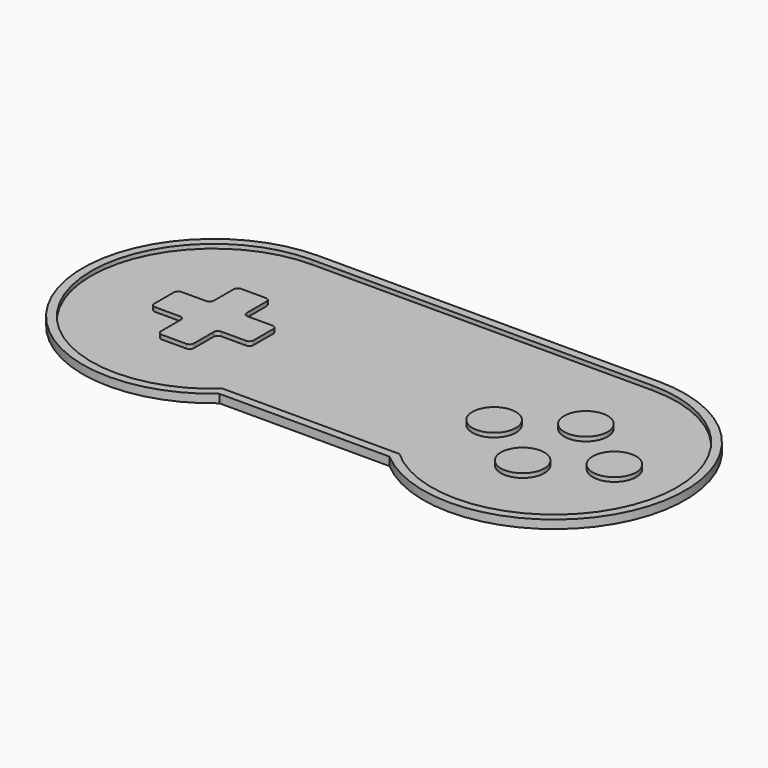
from build123d import *

# Parameters (mm, degrees)
PAD_DEPTH    = 1
SKETCH001_R  = 5.175
PAD001_DEPTH = 1
FILLET_R     = 1


with BuildPart() as part:
    # Sketch → Pad (new body)
    with BuildSketch(Plane.XY):
        with BuildLine():
            Line((0, 0), (81.1, 0))
            ThreePointArc((60.808376, -54.9), (110.364996, -42.016654), (81.1, 0))
            Line((20.291624, -54.9), (60.808376, -54.9))
            ThreePointArc((0, 0), (-29.264996, -42.016654), (20.291624, -54.9))
        make_face()
    extrude(amount=PAD_DEPTH)

    # Sketch001 (on Face6 of Pad) → Pad001 (join)
    with BuildSketch(Plane.XY.offset(1)):
        with BuildLine():
            ThreePointArc((0, 0), (-29.264996, -42.016654), (20.291624, -54.9))
            Line((60.808376, -54.9), (20.291624, -54.9))
            ThreePointArc((60.808376, -54.9), (110.364996, -42.016654), (81.1, 0))
            Line((0, 0), (81.1, 0))
        make_face()
        with BuildLine():
            ThreePointArc((0, -2), (-27.260594, -41.664225), (19.538424, -52.9))
            Line((19.538424, -52.9), (61.561576, -52.9))
            ThreePointArc((61.561576, -52.9), (108.360594, -41.664225), (81.1, -2))
            Line((81.1, -2), (0, -2))
        make_face(mode=Mode.SUBTRACT)
        with Locations((81.1, -21.785)):
            Circle(SKETCH001_R)
        with Locations((95.425, -31.2)):
            Circle(SKETCH001_R)
        with Locations((81.1, -40.615)):
            Circle(SKETCH001_R)
        with Locations((66.775, -31.2)):
            Circle(SKETCH001_R)
        Polygon((-3.925, -19.375), (3.925, -19.375), (3.925, -27.275), (11.825, -27.275), (11.825, -35.125), (3.925, -35.125), (3.925, -43.025), (-3.925, -43.025), (-3.925, -35.125), (-11.825, -35.125), (-11.825, -27.275), (-3.925, -27.275), align=None)
    extrude(amount=PAD001_DEPTH)

    # Fillet
    fillet_edges = [part.edges().sort_by_distance(p)[0] for p in [
        (3.925, -35.125, 1.5),
        (3.925, -43.025, 1.5),
        (11.825, -35.125, 1.5),
        (11.825, -27.275, 1.5),
        (3.925, -19.375, 1.5),
        (-3.925, -43.025, 1.5),
        (-3.925, -35.125, 1.5),
        (-11.825, -35.125, 1.5),
        (-11.825, -27.275, 1.5),
        (-3.925, -27.275, 1.5),
        (-3.925, -19.375, 1.5),
        (3.925, -27.275, 1.5),
    ]]
    fillet(fillet_edges, radius=FILLET_R)


solid = part.part
